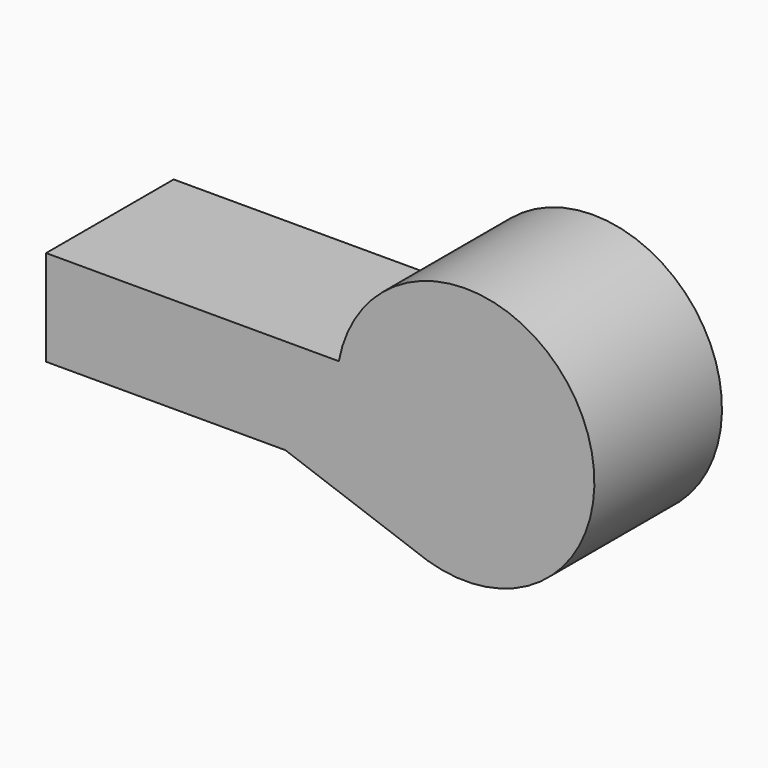
from build123d import *

# Parameters (mm, degrees)
F0_R     = 8.89
F1_DEPTH = 25.4


with BuildPart() as f1:
    # F0 (on Front) → F1 (new body)
    with BuildSketch(Plane.XZ):
        with BuildLine():
            Line((8.524706, 0), (0, 0))
            Line((0, 0), (-38.1, 0))
            Line((-38.1, 0), (-38.1, -15.24))
            Line((-38.1, -15.24), (0, -15.24))
            Line((0, -15.24), (20.882389, -22.727264))
            Line((20.882389, -22.727264), (22.683251, -23.372954))
            ThreePointArc((22.683251, -23.372954), (46.255686, 6.881292), (8.524706, 0))
        make_face()
        with Locations((28.702, -3.752138)):
            Circle(F0_R, mode=Mode.SUBTRACT)
        with Locations((28.702, -3.752138)):
            Circle(F0_R)
    extrude(amount=F1_DEPTH)


solid = f1.part
